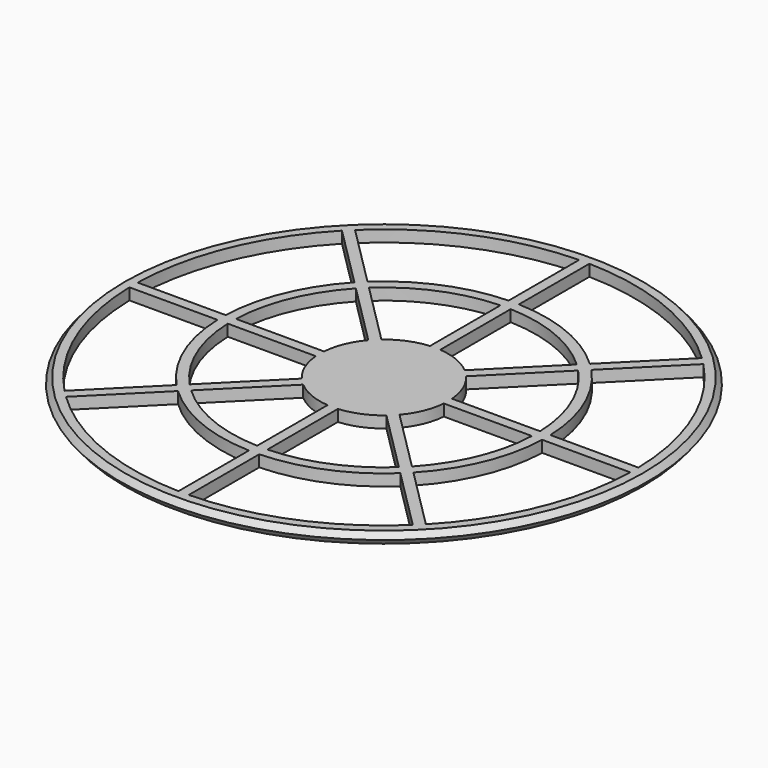
from build123d import *

# Parameters (mm, degrees)
POCKET004_DEPTH       = 234.354933
POLARPATTERN001_COUNT = 8


with BuildPart() as part:
    # Sketch017 → Revolution (revolve)
    with BuildSketch(Plane.XZ):
        Polygon((-40.35, -5.2), (-41.10519, -6.1), (-40.35, -7), (0, -7), (0, -5.2), align=None)
    revolve(axis=Axis((0, 0, 0), (0, 0, 1)))

    # Sketch018 → Pocket004 (cut, through all)
    with BuildSketch(Plane.XY.offset(-7)):
        with BuildLine():
            Line((0.8, 9.967949), (0.8, 23.679871))
            ThreePointArc((16.178512, 17.309883), (9.067064, 21.88983), (0.8, 23.679871))
            Line((6.482719, 7.614089), (16.178512, 17.309883))
            ThreePointArc((6.482719, 7.614089), (3.826834, 9.238795), (0.8, 9.967949))
        make_face()
        with BuildLine():
            ThreePointArc((17.309883, 18.441254), (9.679031, 23.367248), (0.8, 25.279871))
            Line((0.8, 25.279871), (0.8, 38.991794))
            ThreePointArc((27.005677, 28.137047), (14.924654, 36.031302), (0.8, 38.991794))
            Line((17.309883, 18.441254), (27.005677, 28.137047))
        make_face()
    pocket004 = extrude(amount=POCKET004_DEPTH, mode=Mode.SUBTRACT)

    # PolarPattern001: Pocket004 ×8 about axis
    polarpattern001_axis = Axis((0, 0, -7), (0, 0, 1))
    for i in range(1, POLARPATTERN001_COUNT):
        add(pocket004.rotate(polarpattern001_axis, i * 360 / POLARPATTERN001_COUNT), mode=Mode.SUBTRACT)


solid = part.part
